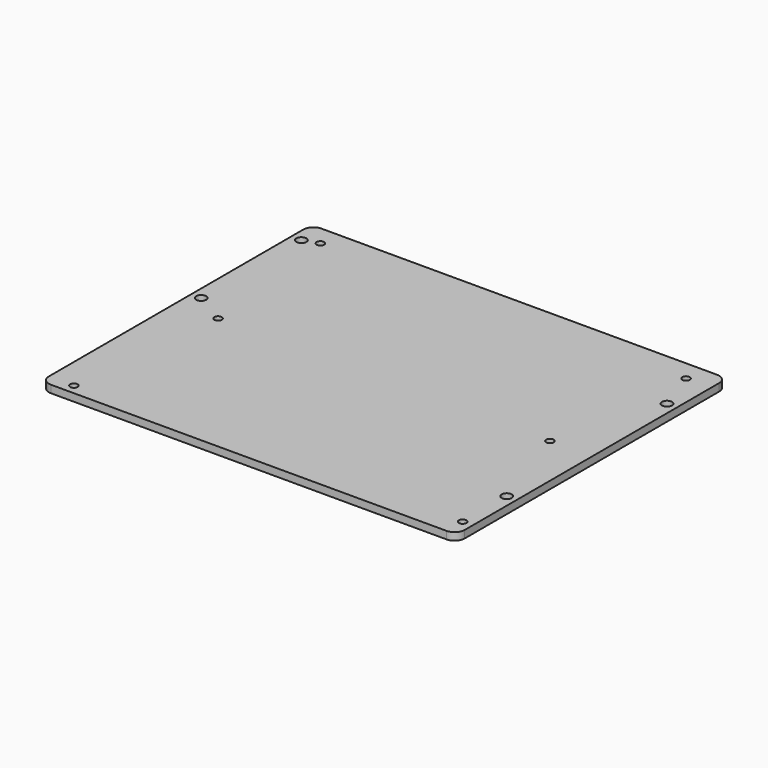
from build123d import *

# Parameters (mm, degrees)
F0_R     = 1.500127
F0_R_2   = 2.000206
F0_R_3   = 2.000059
F0_R_4   = 1.500241
F0_R_5   = 2.000245
F0_R_6   = 1.49976
F0_R_7   = 1.9999
F1_DEPTH = 3


with BuildPart() as f1:
    # F0 (on Top) → F1 (new body)
    with BuildSketch(Plane.XY):
        with BuildLine():
            ThreePointArc((83, 63.5), (81.828427, 66.328427), (79, 67.5))
            Line((79, 67.5), (-79, 67.5))
            ThreePointArc((-79, 67.5), (-81.828427, 66.328427), (-83, 63.5))
            Line((-83, 63.5), (-83, -63.5))
            ThreePointArc((-83, -63.5), (-81.828427, -66.328427), (-79, -67.5))
            Line((-79, -67.5), (79, -67.5))
            ThreePointArc((79, -67.5), (81.828427, -66.328427), (83, -63.5))
            Line((83, -63.5), (83, 63.5))
        make_face()
        with Locations((-72.999999, -63.5)):
            Circle(F0_R, mode=Mode.SUBTRACT)
        with Locations((79, -59.500001)):
            Circle(F0_R, mode=Mode.SUBTRACT)
        with Locations((79, -37.5)):
            Circle(F0_R_2, mode=Mode.SUBTRACT)
        with Locations((-79, 7.5)):
            Circle(F0_R_3, mode=Mode.SUBTRACT)
        with Locations((-66.25, 0)):
            Circle(F0_R_4, mode=Mode.SUBTRACT)
        with Locations((-79, 57.5)):
            Circle(F0_R_5, mode=Mode.SUBTRACT)
        with Locations((-73, 59.5)):
            Circle(F0_R, mode=Mode.SUBTRACT)
        with Locations((66.25, 0)):
            Circle(F0_R_6, mode=Mode.SUBTRACT)
        with Locations((79, 42.5)):
            Circle(F0_R_7, mode=Mode.SUBTRACT)
        with Locations((73, 59.5)):
            Circle(F0_R, mode=Mode.SUBTRACT)
    extrude(amount=F1_DEPTH)


solid = f1.part
